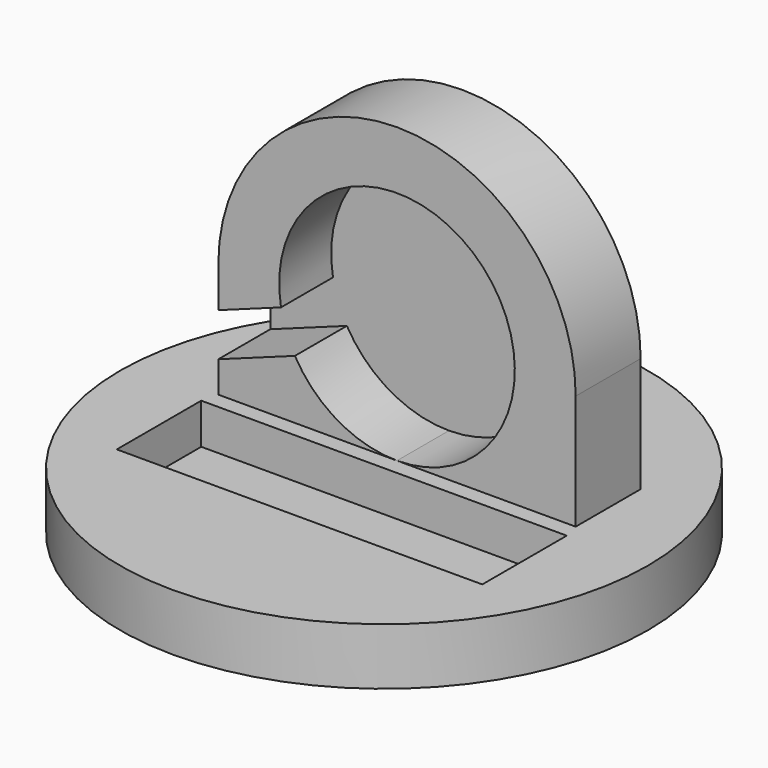
from build123d import *

# Parameters (mm, degrees)
F0_R     = 32.5
F0_W     = 45
F0_H     = 13
F1_DEPTH = 7
F2_DEPTH = 2
F5_DEPTH = 10
F6_START = -8
F6_DEPTH = 2


with BuildPart() as f1:
    # F0 (on Top) → F1 (new body)
    with BuildSketch(Plane.XY):
        Circle(F0_R)
        with Locations((0, -6.5)):
            Rectangle(F0_W, F0_H, mode=Mode.SUBTRACT)
    extrude(amount=F1_DEPTH)

    # F0 (on Top) → F2 (join)
    with BuildSketch(Plane.XY):
        with Locations((0, -6.5)):
            Rectangle(F0_W, F0_H)
    extrude(amount=F2_DEPTH)

    # F4 (on offset) → F5 (join)
    with BuildSketch(Plane.XZ.offset(-2)):
        with BuildLine():
            ThreePointArc((-14.280714402, 18.9670594471), (9.3159717217, 32.6214478116), (-2.92e-08, 7))
            Line((-2.92e-08, 7), (22, 7))
            Line((22, 7), (22, 21.1483523101))
            ThreePointArc((22, 21.1483523101), (0, 43.1483523101), (-22, 21.1483523101))
            Line((-22, 21.1483523101), (-22, 16.1574692596))
            Line((-22, 16.1574692596), (-14.280714402, 18.9670594471))
        make_face()
        with BuildLine():
            ThreePointArc((-2.92e-08, 7), (-7.2603860428, 8.9479555621), (-12.5706136854, 14.2685963432))
            Line((-12.5706136854, 14.2685963432), (-22, 10.8365803972))
            Line((-22, 10.8365803972), (-22, 7))
            Line((-22, 7), (-2.92e-08, 7))
        make_face()
    extrude(amount=-F5_DEPTH)

    # F4 (on offset) → F6 (join)
    with BuildSketch(Plane.XZ.offset(-2).offset(F6_START)):
        with BuildLine():
            Line((-22, 10.8365803972), (-12.5706136854, 14.2685963432))
            ThreePointArc((-12.5706136854, 14.2685963432), (-7.2603860428, 8.9479555621), (-2.92e-08, 7))
            ThreePointArc((-2.92e-08, 7), (9.3159717217, 32.6214478116), (-14.280714402, 18.9670594471))
            Line((-14.280714402, 18.9670594471), (-22, 16.1574692596))
            Line((-22, 16.1574692596), (-22, 10.8365803972))
        make_face()
    extrude(amount=-F6_DEPTH)


solid = f1.part
